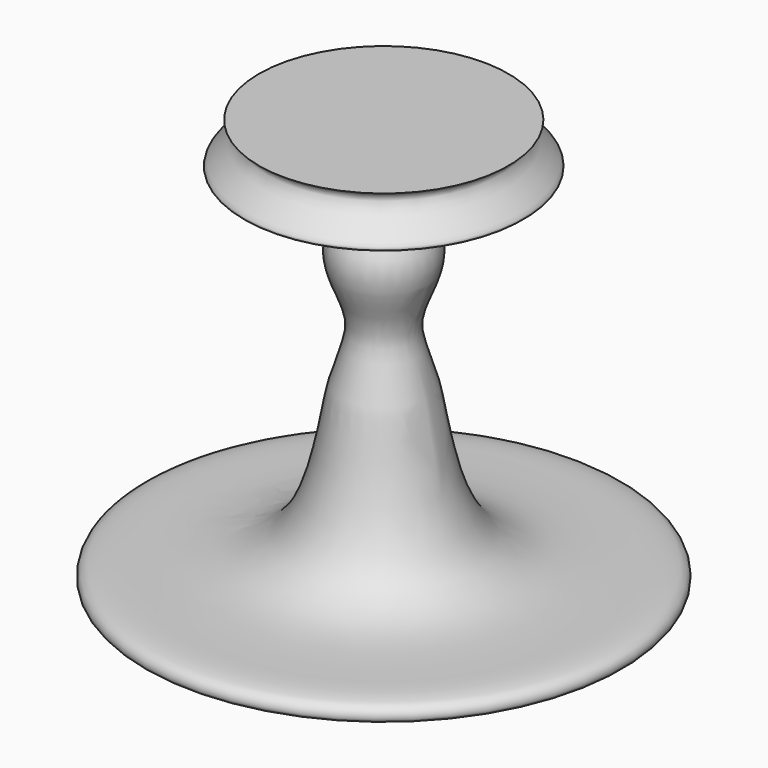
from build123d import *

# Parameters (mm, degrees)
F3_D     = 6.35
F3_DEPTH = 54.2143079887


with BuildPart() as f1:
    # F0 (on Front) → F1 (revolve)
    with BuildSketch(Plane.XZ):
        with BuildLine():
            Line((0, 44.6799397469), (-28.2030049711, 44.6799397469))
            add(Edge.make_bspline(
                [(-28.2030049711, 44.6799397469), (-22.3837681491, 42.046258885), (-45.7548913597, 30.2361769319), (4.5667632681, 39.2316434487), (-15.5750518527, 20.3554831271), (-3.8849137968, 5.0582630329), (-11.7240072253, -6.7555601711), (-13.7408326733, -49.3555121549), (-53.9538902585, -40.9390791925), (-54.5209544932, -47.7127189049), (-48.3675711507, -47.4370931274), (-22.752110824, -47.4673543832), (0, -47.2607277334)],
                knots=[0, 0, 0, 0, 0.0750170234, 0.1959892135, 0.2833569869, 0.3793358525, 0.467949203, 0.609891616, 0.7432264669, 0.7832051506, 0.8289376817, 1, 1, 1, 1], degree=3))
            Line((0, -47.2607277334), (0, 44.6799397469))
        make_face()
    revolve(axis=Axis((0, 0, -1.2903939933), (0, 0, -1)))

    # F3 (through all, one way)
    with BuildSketch(Plane.YZ):
        with Locations((0, 17.7946463227)):
            Circle(F3_D / 2)
    extrude(amount=-F3_DEPTH, mode=Mode.SUBTRACT)


solid = f1.part
